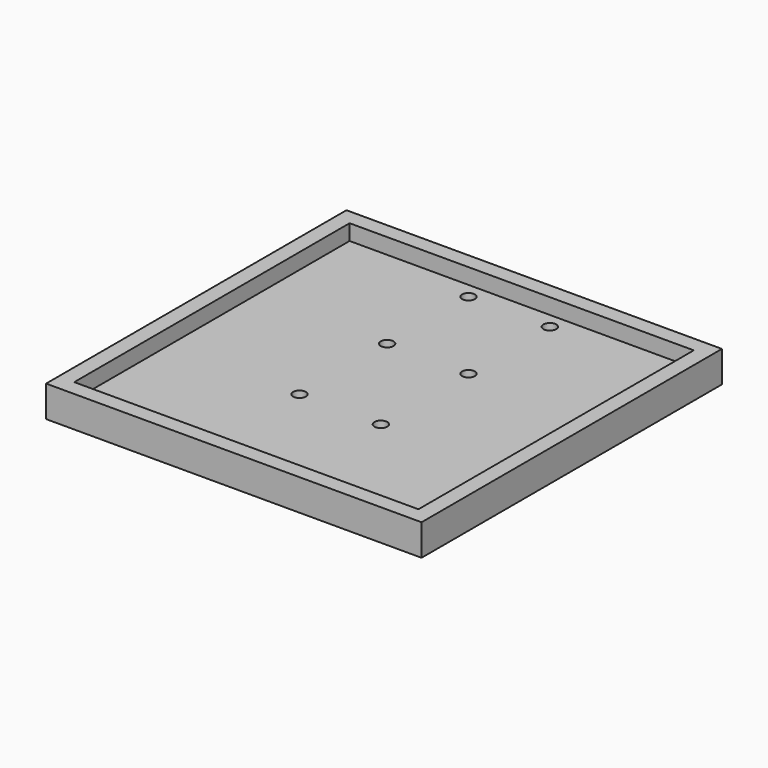
from build123d import *

# Parameters (mm, degrees)
F0_W     = 120
F0_H     = 120
F0_R     = 2.05
F1_DEPTH = 5
F2_W     = 120
F2_H     = 120
F2_W_2   = 110
F2_H_2   = 110
F3_DEPTH = 5


with BuildPart() as f1:
    # F0 (on Top) → F1 (new body)
    with BuildSketch(Plane.XY):
        Rectangle(F0_W, F0_H)
        with Locations((-13, -50)):
            Circle(F0_R, mode=Mode.SUBTRACT)
        with Locations((-13, -17.5)):
            Circle(F0_R, mode=Mode.SUBTRACT)
        with Locations((13, -50)):
            Circle(F0_R, mode=Mode.SUBTRACT)
        with Locations((13, -17.5)):
            Circle(F0_R, mode=Mode.SUBTRACT)
        with Locations((-13, 17.5)):
            Circle(F0_R, mode=Mode.SUBTRACT)
        with Locations((-13, 50)):
            Circle(F0_R, mode=Mode.SUBTRACT)
        with Locations((13, 17.5)):
            Circle(F0_R, mode=Mode.SUBTRACT)
        with Locations((13, 50)):
            Circle(F0_R, mode=Mode.SUBTRACT)
    extrude(amount=-F1_DEPTH)

    # F2 (on Top) → F3 (join)
    with BuildSketch(Plane.XY):
        Rectangle(F2_W, F2_H)
        Rectangle(F2_W_2, F2_H_2, mode=Mode.SUBTRACT)
    extrude(amount=F3_DEPTH)


solid = f1.part
